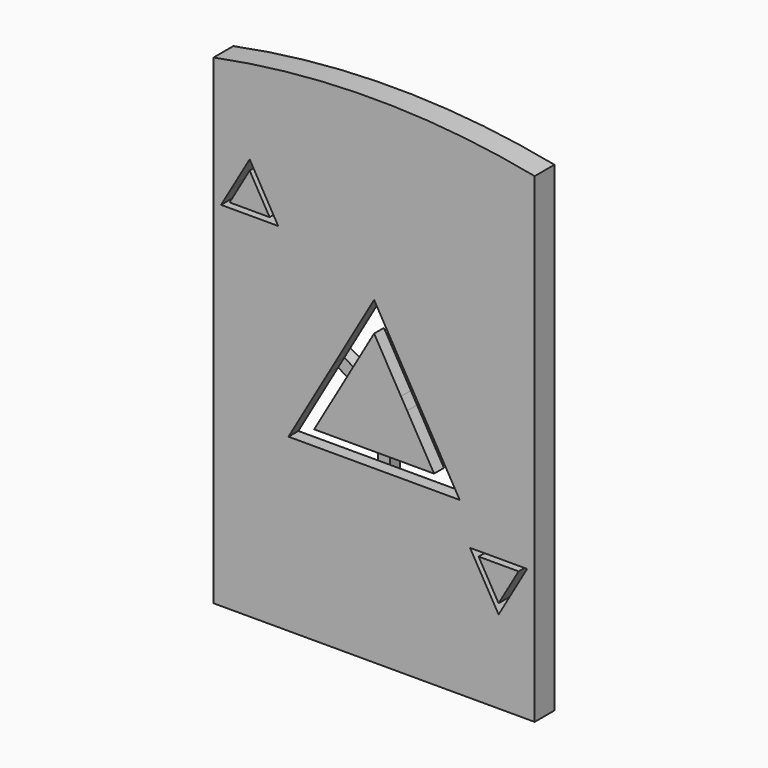
from build123d import *

# Parameters (mm, degrees)
F1_DEPTH = 2.54
F3_DEPTH = 25.4
F5_DEPTH = 2.032
F7_DEPTH = 1.27
F8_SIZE  = 1.27


with BuildPart() as f1:
    # F0 (on Front) → F1 (new body)
    with BuildSketch(Plane.XZ):
        with BuildLine():
            ThreePointArc((33.00001, 49.374628), (16.500005, 51.000006), (0, 49.374628))
            Line((0, 49.374628), (0, 0))
            Line((0, 0), (33.00001, 0))
            Line((33.00001, 0), (33.00001, 49.374628))
        make_face()
    extrude(amount=F1_DEPTH)

    # F2 (on face) → F3 (cut)
    with BuildSketch(Plane.XZ.offset(2.54)):
        Polygon((20.581914, 25.74524), (16.500005, 32.815314), (12.418096, 25.74524), (13.737919, 24.98324), (16.500005, 29.767314), (19.262091, 24.98324), align=None)
        Polygon((11.783096, 24.645388), (7.701187, 17.575314), (15.865005, 17.575314), (15.865005, 19.099314), (10.340832, 19.099314), (13.102919, 23.883388), align=None)
        Polygon((17.135005, 17.575314), (25.298823, 17.575314), (21.216914, 24.645388), (19.897091, 23.883388), (22.659178, 19.099314), (17.135005, 19.099314), align=None)
        Polygon((32.22455, 13.589), (26.358671, 13.589), (27.3852, 11.811), (27.971787, 11.811), (27.238553, 13.081), (29.29161, 13.081), (31.344668, 13.081), (30.611433, 11.811), (31.198021, 11.811), align=None)
        Polygon((27.678494, 11.303), (29.29161, 8.509), (30.904727, 11.303), (30.318139, 11.303), (29.29161, 9.525), (28.265081, 11.303), align=None)
        Polygon((1.801989, 38.071628), (0.775461, 36.293628), (6.641339, 36.293628), (5.614811, 38.071628), (5.028223, 38.071628), (5.761458, 36.801628), (1.655342, 36.801628), (2.388577, 38.071628), align=None)
        Polygon((5.321517, 38.579628), (3.7084, 41.373628), (2.095283, 38.579628), (2.681871, 38.579628), (3.7084, 40.357628), (4.734929, 38.579628), align=None)
    extrude(amount=-F3_DEPTH, mode=Mode.SUBTRACT)

    # F4 (on face) → F5 (cut)
    with BuildSketch(Plane.XZ.offset(2.54)):
        Polygon((6.641339, 36.293628), (3.7084, 41.373628), (0.775461, 36.293628), align=None)
        Polygon((1.655342, 36.801628), (3.7084, 40.357628), (5.761458, 36.801628), align=None, mode=Mode.SUBTRACT)
        Polygon((32.22455, 13.589), (26.358671, 13.589), (29.29161, 8.509), align=None)
        Polygon((29.29161, 9.525), (27.238553, 13.081), (31.344668, 13.081), align=None, mode=Mode.SUBTRACT)
    extrude(amount=-F5_DEPTH, mode=Mode.SUBTRACT)

    # F6 (on face) → F7 (cut)
    with BuildSketch(Plane.XZ.offset(2.54)):
        Polygon((25.298823, 17.575314), (16.500005, 32.815314), (7.701187, 17.575314), align=None)
        Polygon((10.340832, 19.099314), (16.500005, 29.767314), (22.659178, 19.099314), align=None, mode=Mode.SUBTRACT)
    extrude(amount=-F7_DEPTH, mode=Mode.SUBTRACT)

    # F8
    f8_edges = [f1.edges().sort_by_distance(p)[0] for p in [
        (23.257869, 0, 21.110351),
        (18.54096, 0, 29.280277),
        (9.742142, 0, 21.110351),
        (14.459051, 0, 29.280277),
        (11.783096, 0, 17.575314),
        (21.216914, 0, 17.575314),
        (21.278135, 0, 21.491351),
        (17.881048, 0, 27.375277),
        (13.102919, 0, 19.099314),
        (19.897091, 0, 19.099314),
        (11.721876, 0, 21.491351),
        (15.118962, 0, 27.375277),
    ]]
    chamfer(f8_edges, length=F8_SIZE)


solid = f1.part
